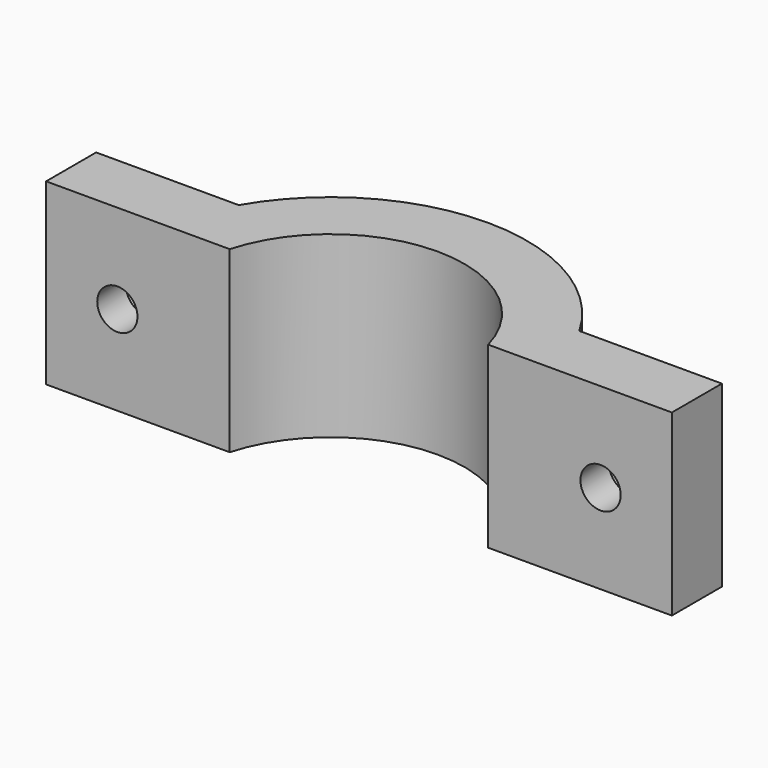
from build123d import *

# Parameters (mm, degrees)
F1_DEPTH = 10
F2_R     = 2.25
F3_DEPTH = 25
F4_R     = 2.25
F5_DEPTH = 3


with BuildPart() as f1:
    # F0 (on Top) → F1 (new body, symmetric)
    with BuildSketch(Plane.XY):
        with BuildLine():
            Line((-35, 7), (-35, 0))
            Line((-35, 0), (-14.456832, 0))
            ThreePointArc((-14.456832, 0), (0, 11), (14.456832, 0))
            Line((14.456832, 0), (35, 0))
            Line((35, 0), (35, 7))
            Line((35, 7), (19.052559, 7))
            ThreePointArc((19.052559, 7), (0, 18), (-19.052559, 7))
            Line((-19.052559, 7), (-35, 7))
        make_face()
    extrude(amount=F1_DEPTH, both=True)

    # F2 (on face) → F3 (cut)
    with BuildSketch(Plane(origin=(0, 7, 0), x_dir=(-1, 0, 0), z_dir=(0, 1, 0))):
        with Locations((-27.026279, 0)):
            Circle(F2_R)
        with Locations((27.026279, 0)):
            Circle(F2_R)
    extrude(amount=-F3_DEPTH, mode=Mode.SUBTRACT)

    # F4 (on face) → F5 (cut)
    with BuildSketch(Plane(origin=(0, 7, 0), x_dir=(-1, 0, 0), z_dir=(0, 1, 0))):
        Polygon((-29.10474, 3.6), (-31.183201, 0), (-29.10474, -3.6), (-24.947818, -3.6), (-22.869358, 0), (-24.947818, 3.6), align=None)
        with Locations((-27.026279, 0)):
            Circle(F4_R, mode=Mode.SUBTRACT)
        Polygon((29.10474, -3.6), (31.183201, 0), (29.10474, 3.6), (24.947818, 3.6), (22.869358, 0), (24.947818, -3.6), align=None)
    extrude(amount=-F5_DEPTH, mode=Mode.SUBTRACT)


solid = f1.part
